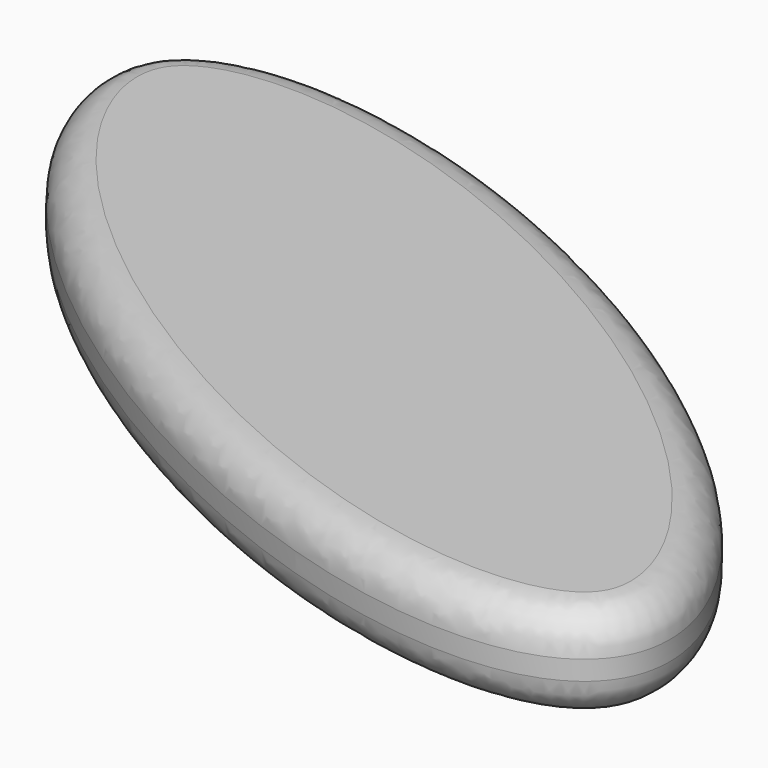
from build123d import *

# Parameters (mm, degrees)
F1_DEPTH = 12.7
F2_R     = 5.08
F3_R     = 5.08


with BuildPart() as f1:
    # F0 (on Top) → F1 (new body)
    with BuildSketch(Plane.XY):
        with BuildLine():
            add(Edge.make_bspline(
                [(-58.0282583833, 33.5593596101), (-80.7095595585, -5.659398446), (17.673478604, -36.3890588331), (116.0565167665, -67.1187192202), (40.3547797793, 2.829699223), (-35.346957208, 72.7781176662), (-58.0282583833, 33.5593596101)],
                knots=[0, 0, 0, 2.0943951024, 2.0943951024, 4.1887902048, 4.1887902048, 6.2831853072, 6.2831853072, 6.2831853072], degree=2, weights=[1, 0.5, 1, 0.5, 1, 0.5, 1]))
        make_face()
    extrude(amount=F1_DEPTH)

    # F2
    f2_edges = [f1.edges().sort_by_distance(p)[0] for p in [
        (58.028205, -33.559452, 12.7),
    ]]
    fillet(f2_edges, radius=F2_R)

    # F3
    f3_edges = [f1.edges().sort_by_distance(p)[0] for p in [
        (58.028205, -33.559452, 0),
    ]]
    fillet(f3_edges, radius=F3_R)


solid = f1.part
